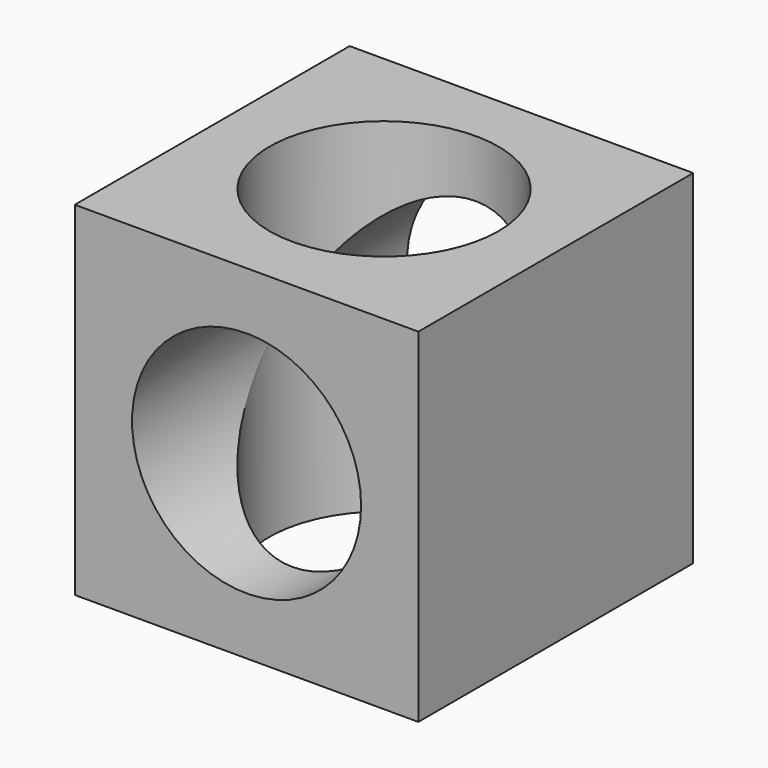
from build123d import *

# Parameters (mm, degrees)
SKETCH_W     = 12
SKETCH_H     = 12
SKETCH_R     = 4
PAD_DEPTH    = 12
SKETCH001_R  = 4
POCKET_DEPTH = 12.001


with BuildPart() as part:
    # Sketch → Pad (new body)
    with BuildSketch(Plane.XY):
        with Locations((6, 6)):
            Rectangle(SKETCH_W, SKETCH_H)
        with Locations((6, 6)):
            Circle(SKETCH_R, mode=Mode.SUBTRACT)
    extrude(amount=PAD_DEPTH)

    # Sketch001 (on Face1 of Pad) → Pocket (cut, through all)
    with BuildSketch(Plane.XZ):
        with Locations((6, 6)):
            Circle(SKETCH001_R)
    extrude(amount=-POCKET_DEPTH, mode=Mode.SUBTRACT)


solid = part.part
